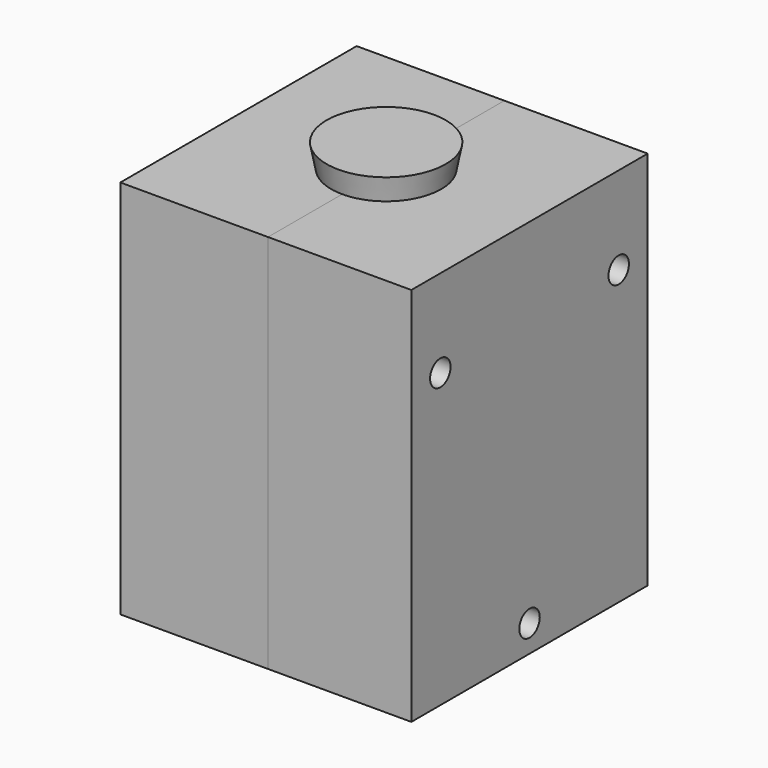
from build123d import *

# Parameters (mm, degrees)
F2_W     = 29.1142500937
F2_H     = 77.2336348891
F3_DEPTH = 30
F4_W     = 6.874198094
F4_H     = 5.8632865548
F4_W_2   = 8.0872904509
F4_H_2   = 8.2894712687
F4_W_3   = 7.0763789117
F4_W_4   = 7.4807442725
F4_H_3   = 7.4807461351
F5_DEPTH = 2
F6_W     = 60
F6_H     = 77.2336348891
F8_DEPTH = 30
F15_SIZE = 1
F17_D    = 5.2
F17_2_D  = 5.2


with BuildPart() as f1:
    # F0 (on Front) → F1 (revolve)
    with BuildSketch(Plane.XZ):
        with BuildLine():
            Line((0, -25), (0, 25))
            ThreePointArc((0, 25), (-25, 0), (0, -25))
        make_face()
    revolve(axis=Axis((0, 0, 1.6856454313), (0, 0, 1)))


with BuildPart() as f3:
    # F2 (on Front) → F3 (new body, symmetric)
    with BuildSketch(Plane.XZ):
        with Locations((14.5571250468, 2.5272779167)):
            Rectangle(F2_W, F2_H)
    extrude(amount=F3_DEPTH, both=True)

    # F4 (on face) → F5 (join)
    with BuildSketch(Plane(origin=(0, 0, 0), x_dir=(0, -1, 0), z_dir=(-1, 0, 0))):
        with Locations((-22.0378702506, 31.7426212132)):
            Rectangle(F4_W, F4_H)
        with Locations((20.420412533, 32.9557135701)):
            Rectangle(F4_W_2, F4_H_2)
        with Locations((20.9258683026, -29.9229808152)):
            Rectangle(F4_W_3, F4_H)
        with Locations((-22.3411433399, -29.114251025)):
            Rectangle(F4_W_4, F4_H_3)
    extrude(amount=F5_DEPTH)

    # F7: cut F1
    add(f1.part, mode=Mode.SUBTRACT)


with BuildPart() as f8:
    # F6 (on face) → F8 (new body)
    with BuildSketch(Plane(origin=(0, 0, 0), x_dir=(0, -1, 0), z_dir=(-1, 0, 0))):
        with Locations((0, 2.5272779167)):
            Rectangle(F6_W, F6_H)
    extrude(amount=F8_DEPTH)

    # F9: cut F3
    add(f3.part, mode=Mode.SUBTRACT)

    # F10: cut F1
    add(f1.part, mode=Mode.SUBTRACT)


with BuildPart() as f12:
    # F11 (on face) → F12 (revolve)
    with BuildSketch(Plane(origin=(0, 0, 0), x_dir=(0, -1, 0), z_dir=(-1, 0, 0))):
        Polygon((-12.0956879109, 45.9183938801), (-11.1659361575, 41.1440953612), (0, 41.1440953612), (0, 45.9183938801), align=None)
        with BuildLine():
            Line((-11.1659361575, 41.1440953612), (-7.7802531085, 23.7585281861))
            ThreePointArc((-7.7802531085, 23.7585281861), (-3.9393397511, 24.6876811857), (0, 25))
            Line((0, 25), (0, 41.1440953612))
            Line((0, 41.1440953612), (-11.1659361575, 41.1440953612))
        make_face()
    revolve(axis=Axis((0, 0, 32.5138643384), (0, 0, -1)))

    # F13: cut F1
    add(f1.part, mode=Mode.SUBTRACT)


with BuildPart() as f3_1:
    add(f3.part)

    # F14: cut F12
    add(f12.part, mode=Mode.SUBTRACT)

    # F15
    f15_edges = [f3_1.edges().sort_by_distance(p)[0] for p in [
        (-2, -20.420413, 37.100449),
        (-2, -16.376767, 32.955714),
        (-2, -20.420413, 28.810978),
        (-2, -24.464058, 32.955714),
        (-2, 22.03787, 34.674264),
        (-2, 25.474969, 31.742621),
        (-2, 22.03787, 28.810978),
        (-2, 18.600771, 31.742621),
        (-2, 22.341143, -32.854624),
        (-2, 18.600771, -29.114251),
        (-2, 22.341143, -25.373878),
        (-2, 26.081515, -29.114251),
        (-2, -20.925868, -26.991338),
        (-2, -17.387679, -29.922981),
        (-2, -20.925868, -32.854624),
        (-2, -24.464058, -29.922981),
    ]]
    chamfer(f15_edges, length=F15_SIZE)

    # F17 (through all)
    with Locations(Plane(origin=(-30, 0, 0), x_dir=(0, -1, 0), z_dir=(-1, 0, 0))):
        with Locations((-22.6444192231, 23.3520567417), (22.6444192231, 23.3520567417), (0, -30.6306183338)):
            Hole(F17_D / 2)


with BuildPart() as f8_1:
    add(f8.part)

    # F14: cut F12
    add(f12.part, mode=Mode.SUBTRACT)

    # F17#2 (through all)
    with Locations(Plane(origin=(-30, 0, 0), x_dir=(0, -1, 0), z_dir=(-1, 0, 0))):
        with Locations((-22.6444192231, 23.3520567417), (22.6444192231, 23.3520567417), (0, -30.6306183338)):
            Hole(F17_2_D / 2)


solid = Compound([f1.part, f12.part, f3_1.part, f8_1.part])
